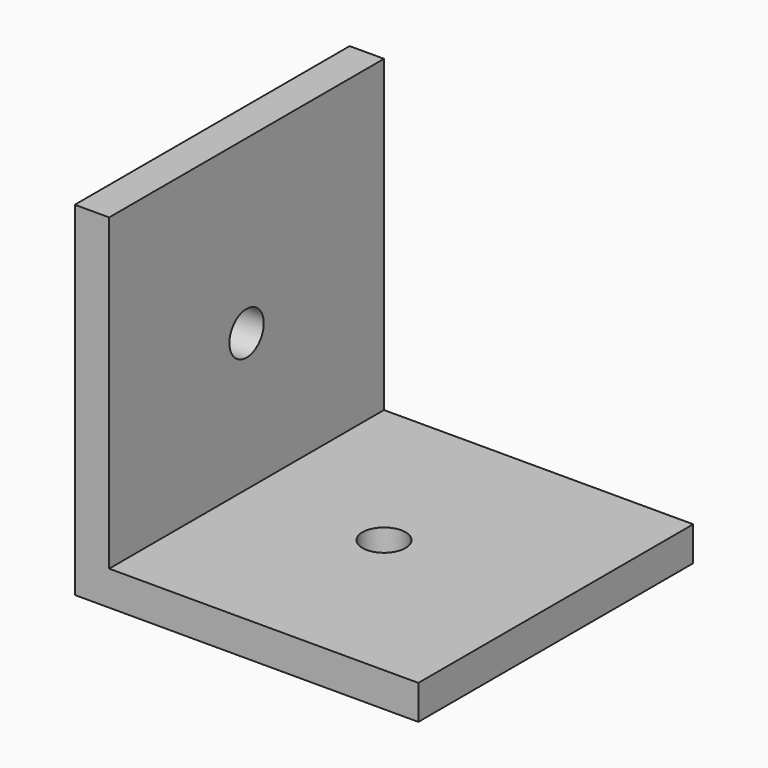
from build123d import *

# Parameters (mm, degrees)
F1_DEPTH   = 25.4
F4_D       = 3.175
F4_ON_F3_D = 3.175


with BuildPart() as f1:
    # F0 (on Front) → F1 (new body)
    with BuildSketch(Plane.XZ):
        Polygon((0, 25.4), (0, 0), (25.4, 0), (25.4, 2.54), (2.54, 2.54), (2.54, 25.4), align=None)
    extrude(amount=F1_DEPTH)

    # F4 (through all)
    with Locations(Plane.YZ.offset(2.54)):
        with Locations((-12.7, 12.7)):
            Hole(F4_D / 2)

    # F4 on F3 (through all)
    with Locations(Plane.XY.offset(2.54)):
        with Locations((12.7, -12.7)):
            Hole(F4_ON_F3_D / 2)


solid = f1.part
